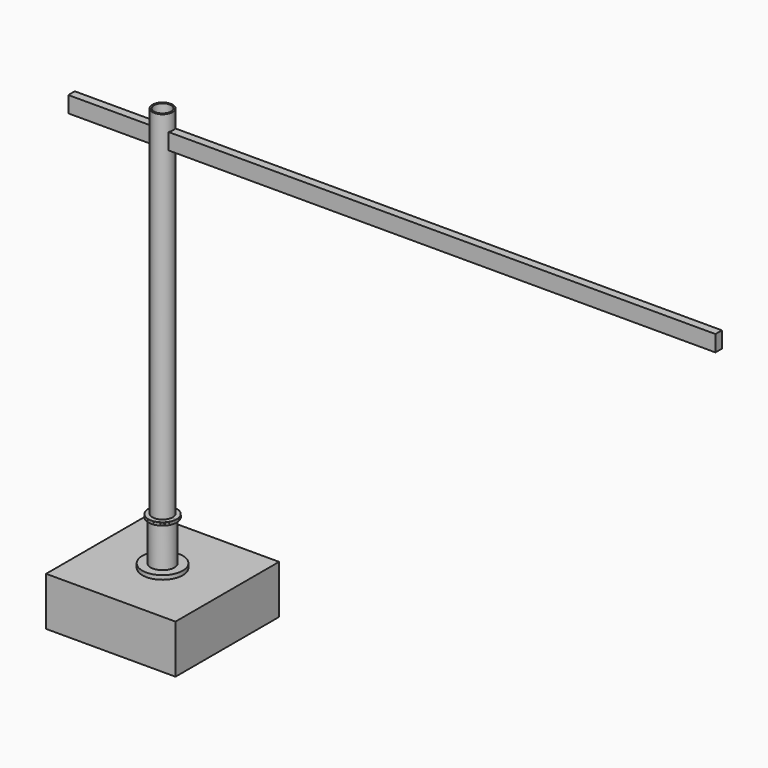
from build123d import *

# Parameters (mm, degrees)
F0_R           = 62.5
F0_R_2         = 52.5
F1_DEPTH       = 2500
F3_W           = 50
F3_H           = 100
F4_DEPTH       = 125.001
F5_W           = 50
F5_H           = 100
F6_DEPTH       = 3500
F6_DEPTH_BACK  = 500
F7_W           = 800
F7_H           = 800
F8_DEPTH       = 300
F9_R           = 125
F10_DEPTH      = 25
F11_R          = 73
F11_R_2        = 63
F12_DEPTH      = 250
F13_R          = 88
F13_R_2        = 63
F14_DEPTH      = 10
F15_R          = 65.834108
F15_R_2        = 57.5
F16_DEPTH      = 10
F16_DEPTH_BACK = 2
F18_DEPTH      = 8


with BuildPart() as f1:
    # F0 (on Top) → F1 (new body)
    with BuildSketch(Plane.XY):
        Circle(F0_R)
        Circle(F0_R_2, mode=Mode.SUBTRACT)
    extrude(amount=F1_DEPTH)

    # F3 (on offset) → F4 (cut, through all)
    with BuildSketch(Plane.YZ.offset(-62.5)):
        with Locations((0, 2350)):
            Rectangle(F3_W, F3_H)
    extrude(amount=F4_DEPTH, mode=Mode.SUBTRACT)

    # F5 (on offset) → F6 (join, two sides)
    with BuildSketch(Plane.YZ.offset(-62.5)) as f6_sk:
        with Locations((0, 2350)):
            Rectangle(F5_W, F5_H)
    extrude(amount=F6_DEPTH)
    extrude(f6_sk.sketch, amount=-F6_DEPTH_BACK)


with BuildPart() as f8:
    # F7 (on Top) → F8 (new body)
    with BuildSketch(Plane.XY):
        Rectangle(F7_W, F7_H)
    extrude(amount=-F8_DEPTH)


with BuildPart() as f10:
    # F9 (on Top) → F10 (new body)
    with BuildSketch(Plane.XY):
        Circle(F9_R)
    extrude(amount=F10_DEPTH)

    # F11 (on face) → F12 (join)
    with BuildSketch(Plane.XY.offset(25)):
        Circle(F11_R)
        Circle(F11_R_2, mode=Mode.SUBTRACT)
    extrude(amount=F12_DEPTH)

    # F13 (on face) → F14 (join)
    with BuildSketch(Plane.XY.offset(275)):
        Circle(F13_R)
        Circle(F13_R_2, mode=Mode.SUBTRACT)
    extrude(amount=F14_DEPTH)


with BuildPart() as f16_tool:
    # F15 (on face) → F16 (new body, two sides)
    with BuildSketch(Plane.XY.offset(285)) as f16_sk:
        Circle(F15_R)
        Circle(F15_R_2, mode=Mode.SUBTRACT)
    extrude(amount=F16_DEPTH)
    extrude(f16_sk.sketch, amount=-F16_DEPTH_BACK)


with BuildPart() as f1_1:
    add(f1.part)

    # F16: cut by f16_tool
    add(f16_tool.part, mode=Mode.SUBTRACT)


with BuildPart() as f10_1:
    add(f10.part)

    # F16: cut by f16_tool
    add(f16_tool.part, mode=Mode.SUBTRACT)


with BuildPart() as f18:
    # F17 (on face) → F18 (new body)
    with BuildSketch(Plane.XY.offset(285)):
        with BuildLine():
            ThreePointArc((-58.664815, 1.421273), (1.421273, 58.664815), (58.664815, -1.421273))
            Line((58.664815, -1.421273), (87.438916, -2.118383))
            ThreePointArc((87.438916, -2.118383), (2.118383, 87.438916), (-87.438916, 2.118383))
            Line((-87.438916, 2.118383), (-58.664815, 1.421273))
        make_face()
    extrude(amount=F18_DEPTH)


with BuildPart() as f19_1:
    # F19: instance of F18
    add(f18.part.mirror(Plane(origin=(-73.051866, 1.769828, 289), x_dir=(0.999707, -0.02422, 0), z_dir=(-0.02422, -0.999707, 0))))


solid = Compound([f8.part, f1_1.part, f10_1.part, f18.part, f19_1.part])
